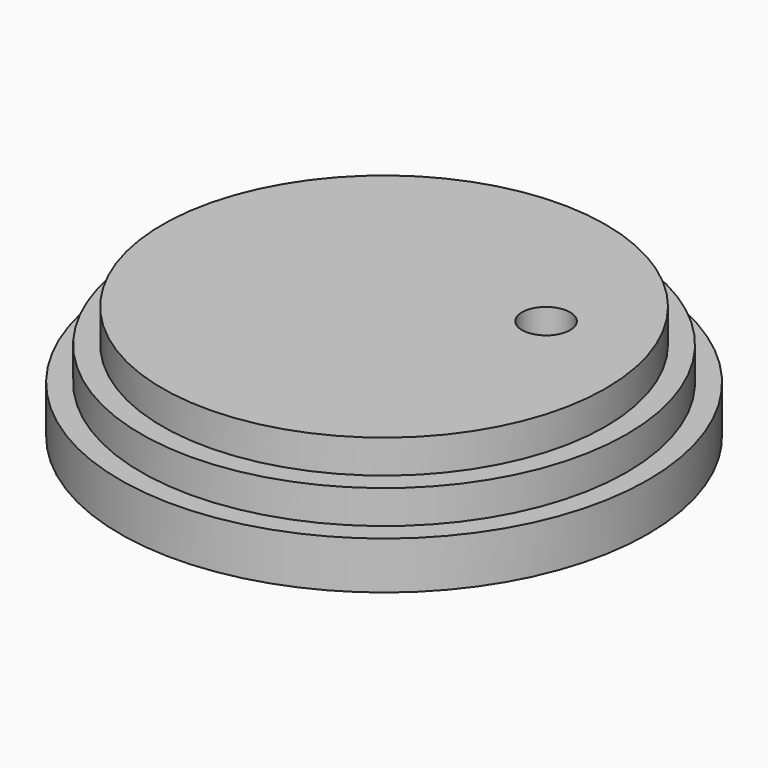
from build123d import *

# Parameters (mm, degrees)
F0_W     = 19.05
F0_H     = 3.429
F2_W     = 17.526
F2_H     = 2.413
F4_W     = 16.002
F4_H     = 2.413
F6_R     = 1.7399
F7_DEPTH = 8.256


with BuildPart() as f1:
    # F0 (on Front) → F1 (revolve)
    with BuildSketch(Plane.XZ):
        with Locations((9.525, 1.7145)):
            Rectangle(F0_W, F0_H)
    revolve(axis=Axis((0, 0, 1.7145), (0, 0, 1)))

    # F2 (on Front) → F3 (revolve)
    with BuildSketch(Plane.XZ):
        with Locations((8.763, 4.6355)):
            Rectangle(F2_W, F2_H)
    revolve(axis=Axis((0, 0, 4.6355), (0, 0, 1)))

    # F4 (on Front) → F5 (revolve)
    with BuildSketch(Plane.XZ):
        with Locations((8.001, 7.0485)):
            Rectangle(F4_W, F4_H)
    revolve(axis=Axis((0, 0, 7.0485), (0, 0, 1)))

    # F6 (on face) → F7 (cut, through all)
    with BuildSketch(Plane.XY.offset(8.255)):
        with Locations((8.243714, 4.308599)):
            Circle(F6_R)
    extrude(amount=-F7_DEPTH, mode=Mode.SUBTRACT)


solid = f1.part
